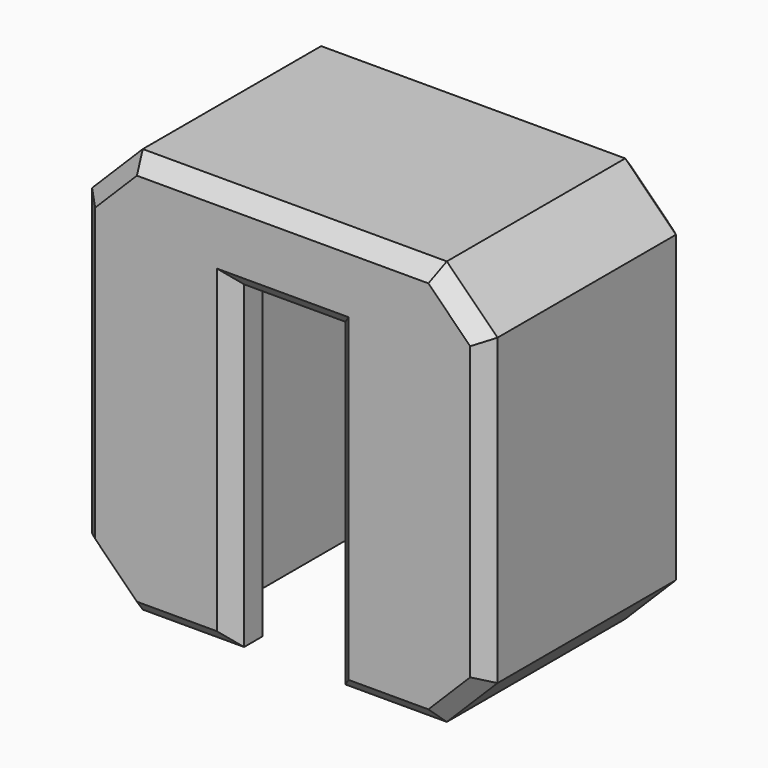
from build123d import *

# Parameters (mm, degrees)
F2_DEPTH = 16
F3_DEPTH = 12.6
F4_SIZE  = 2
F5_SIZE  = 0.6
F6_R     = 1.5
F7_DEPTH = 1
F7_TAPER = 45


with BuildPart() as f2:
    # F1 (on Top) → F2 (new body)
    with BuildSketch(Plane.XY):
        Polygon((-8, -5), (-2, -5), (-2, -3.5), (-4, -3.5), (-4, 3.5), (4, 3.5), (4, -3.5), (2, -3.5), (2, -5), (8, -5), (8, 5), (-8, 5), align=None)
        Polygon((-2, -3.5), (-2, -5), (2, -5), (2, -3.5), (4, -3.5), (4, 3.5), (-4, 3.5), (-4, -3.5), align=None)
    extrude(amount=F2_DEPTH)

    # F1 (on Top) → F3 (cut)
    with BuildSketch(Plane.XY):
        Polygon((-2, -3.5), (-2, -5), (2, -5), (2, -3.5), (4, -3.5), (4, 3.5), (-4, 3.5), (-4, -3.5), align=None)
    extrude(amount=F3_DEPTH, mode=Mode.SUBTRACT)

    # F4
    f4_edges = [f2.edges().sort_by_distance(p)[0] for p in [
        (-8, 0, 0),
        (-8, 0, 16),
        (8, 0, 16),
        (8, 0, 0),
    ]]
    chamfer(f4_edges, length=F4_SIZE)

    # F5
    f5_edges = [f2.edges().sort_by_distance(p)[0] for p in [
        (8, 5, 8),
        (7, 5, 1),
        (7, 5, 15),
        (0, 5, 0),
        (0, 5, 16),
        (-7, 5, 1),
        (-7, 5, 15),
        (-8, 5, 8),
        (-4, -5, 0),
        (-7, -5, 1),
        (-2, -5, 6.3),
        (-8, -5, 8),
        (0, -5, 12.6),
        (-7, -5, 15),
        (2, -5, 6.3),
        (0, -5, 16),
        (4, -5, 0),
        (7, -5, 15),
        (7, -5, 1),
        (8, -5, 8),
    ]]
    chamfer(f5_edges, length=F5_SIZE)

    # F6 (on face) → F7 (join)
    with BuildSketch(Plane(origin=(0, 5, 0), x_dir=(-1, 0, 0), z_dir=(0, 1, 0))):
        with Locations((-2.906170112, 4)):
            Circle(F6_R)
        with Locations((2.906170112, 4)):
            Circle(F6_R)
        with Locations((4.7022820183, 9.527864045)):
            Circle(F6_R)
        with Locations((0, 12.94427191)):
            Circle(F6_R)
        with Locations((-4.7022820183, 9.527864045)):
            Circle(F6_R)
        with Locations((0, 8)):
            Circle(F6_R)
    extrude(amount=F7_DEPTH, taper=F7_TAPER)


solid = f2.part
